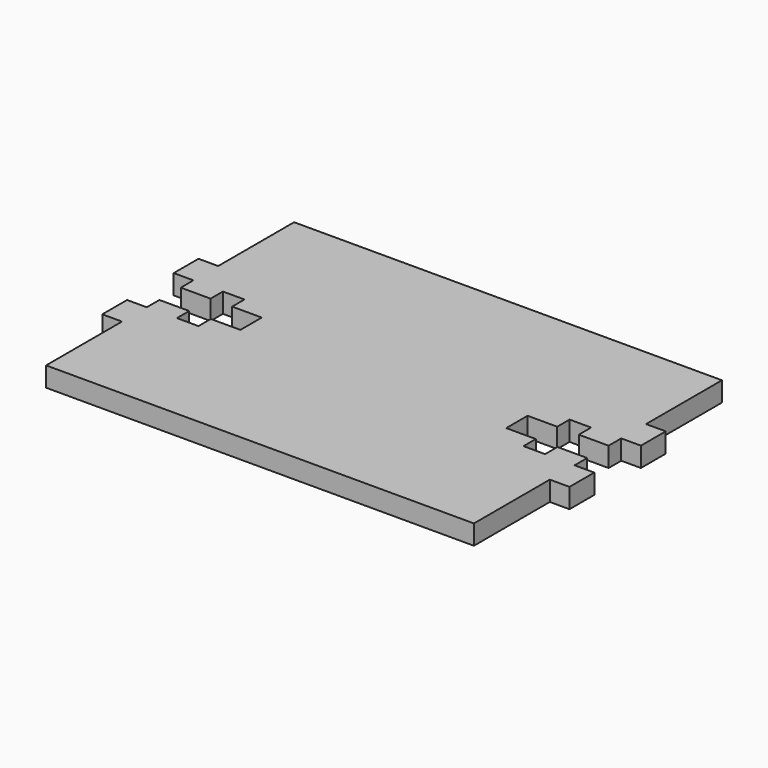
from build123d import *

# Parameters (mm, degrees)
F1_DEPTH = 3.175


with BuildPart() as f1:
    # F0 (on Top) → F1 (new body)
    with BuildSketch(Plane.XY):
        Polygon((34.5, 25), (-34.5, 25), (-34.5, 9.7), (-37.675, 9.7), (-37.675, 4.7), (-34.5, 4.7), (-34.5, 2.152538), (-29.690622, 2.152538), (-29.690622, 4.641738), (-26.210822, 4.641738), (-26.210822, 2.152538), (-21.435622, 2.152538), (-21.435622, -2.152538), (-26.210822, -2.152538), (-26.210822, -4.641738), (-29.690622, -4.641738), (-29.690622, -2.152538), (-34.5, -2.152538), (-34.5, -4.7), (-37.675, -4.7), (-37.675, -9.7), (-34.5, -9.7), (-34.5, -25), (34.5, -25), (34.5, -9.7), (37.675, -9.7), (37.675, -4.7), (34.5, -4.7), (34.5, -2.152538), (29.690622, -2.152538), (29.690622, -4.641738), (26.210822, -4.641738), (26.210822, -2.152538), (21.435622, -2.152538), (21.435622, 2.152538), (26.210822, 2.152538), (26.210822, 4.641738), (29.690622, 4.641738), (29.690622, 2.152538), (34.5, 2.152538), (34.5, 4.7), (37.675, 4.7), (37.675, 9.7), (34.5, 9.7), align=None)
    extrude(amount=F1_DEPTH)


solid = f1.part
